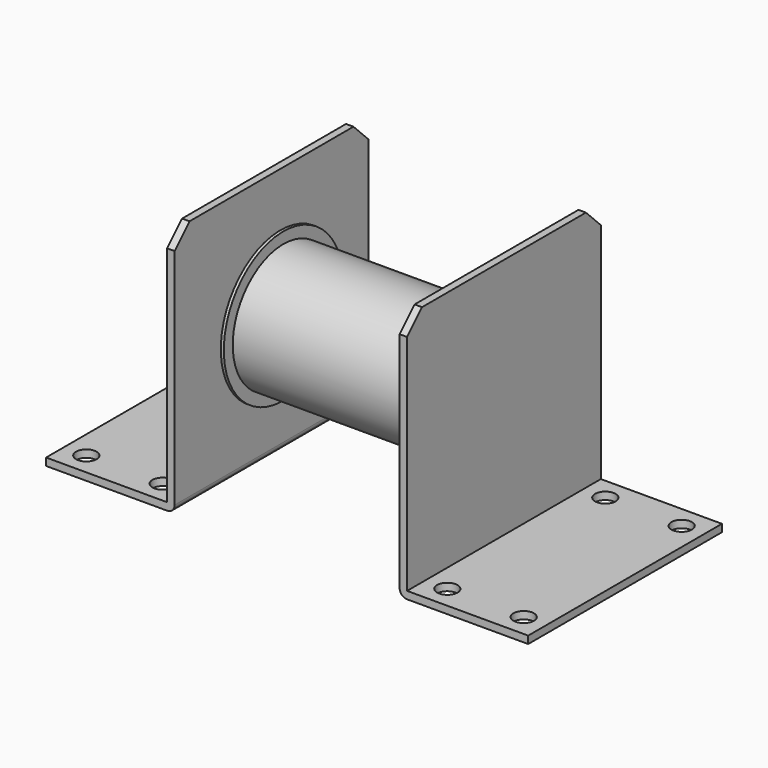
from build123d import *

# Parameters (mm, degrees)
F0_R          = 20
F1_DEPTH      = 27.8
F1_DEPTH_BACK = 27.8
F2_R          = 7
F3_DEPTH      = 28.8
F3_DEPTH_BACK = 28.8
F4_R          = 20
F4_R_2        = 17
F5_DEPTH      = 27
F5_DEPTH_BACK = 27
F6_R          = 5
F7_DEPTH      = 32.2
F7_DEPTH_BACK = 36.7
F9_DEPTH      = 32.5
F9_DEPTH_BACK = 32.5
F10_SIZE      = 5
F11_R         = 2
F13_D         = 5.5


with BuildPart() as f1:
    # F0 (on Right) → F1 (new body, two sides)
    with BuildSketch(Plane.YZ) as f1_sk:
        Circle(F0_R)
    extrude(amount=F1_DEPTH)
    extrude(f1_sk.sketch, amount=-F1_DEPTH_BACK)

    # F2 (on Right) → F3 (join, two sides)
    with BuildSketch(Plane.YZ) as f3_sk:
        Circle(F2_R)
    extrude(amount=F3_DEPTH)
    extrude(f3_sk.sketch, amount=-F3_DEPTH_BACK)

    # F4 (on Right) → F5 (cut, two sides)
    with BuildSketch(Plane.YZ) as f5_sk:
        Circle(F4_R)
        Circle(F4_R_2, mode=Mode.SUBTRACT)
    extrude(amount=-F5_DEPTH, mode=Mode.SUBTRACT)
    extrude(f5_sk.sketch, amount=F5_DEPTH_BACK, mode=Mode.SUBTRACT)

    # F6 (on Right) → F7 (join, two sides)
    with BuildSketch(Plane.YZ) as f7_sk:
        Circle(F6_R)
    extrude(amount=F7_DEPTH)
    extrude(f7_sk.sketch, amount=-F7_DEPTH_BACK)

    # F8 (on Front) → F9 (join, two sides)
    with BuildSketch(Plane.XZ) as f9_sk:
        Polygon((32.2, 32.5), (30.2, 32.5), (30.2, -34.5), (64.7, -34.5), (64.7, -32.5), (32.2, -32.5), align=None)
        Polygon((-30.2, -34.5), (-30.2, 32.5), (-32.2, 32.5), (-32.2, -32.5), (-64.7, -32.5), (-64.7, -34.5), align=None)
    extrude(amount=F9_DEPTH)
    extrude(f9_sk.sketch, amount=-F9_DEPTH_BACK)

    # F10
    f10_edges = [f1.edges().sort_by_distance(p)[0] for p in [
        (31.2, -32.5, 32.5),
        (31.2, 32.5, 32.5),
        (-31.2, -32.5, 32.5),
        (-31.2, 32.5, 32.5),
    ]]
    chamfer(f10_edges, length=F10_SIZE)

    # F11
    f11_edges = [f1.edges().sort_by_distance(p)[0] for p in [
        (30.2, 0, -34.5),
        (-30.2, 0, -34.5),
    ]]
    fillet(f11_edges, radius=F11_R)

    # F13 (through all)
    with Locations(Plane.XY.offset(-32.5)):
        with Locations((38.2, 26.5), (38.2, -26.5), (58.7, -26.5), (-38.2, -26.5), (-58.7, -26.5), (-58.7, 26.5), (-38.2, 26.5), (58.7, 26.5)):
            Hole(F13_D / 2)


solid = f1.part
